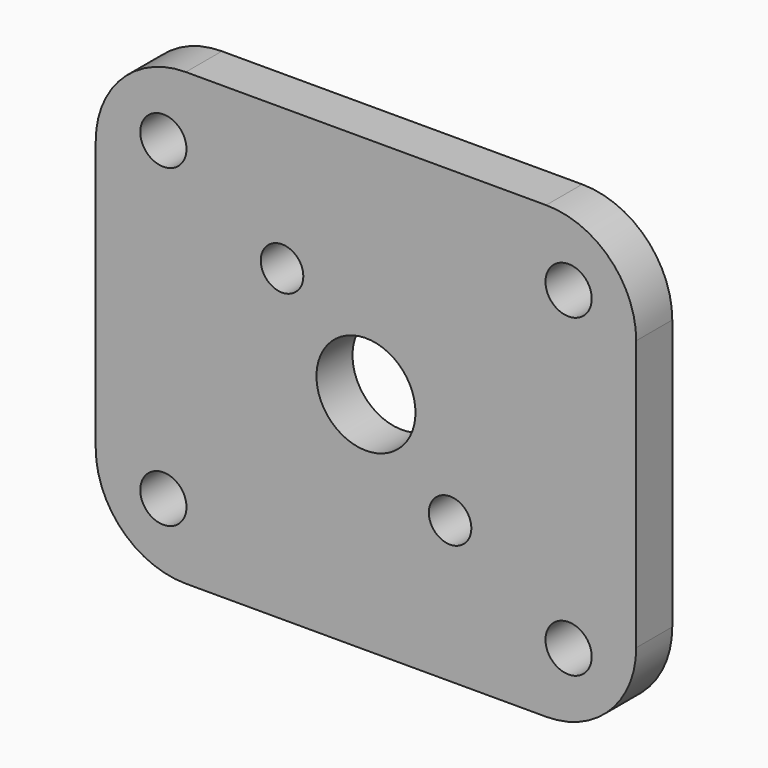
from build123d import *

# Parameters (mm, degrees)
F0_R     = 1.62941
F0_R_2   = 1.4986
F0_R_3   = 1.49987
F0_R_4   = 3.48996
F1_DEPTH = 3.175


with BuildPart() as f1:
    # F0 (on Front) → F1 (new body)
    with BuildSketch(Plane.XZ):
        with BuildLine():
            ThreePointArc((19.05, 9.525), (17.190128, 14.015128), (12.7, 15.875))
            Line((12.7, 15.875), (-12.7, 15.875))
            ThreePointArc((-12.7, 15.875), (-17.190128, 14.015128), (-19.05, 9.525))
            Line((-19.05, 9.525), (-19.05, -9.525))
            ThreePointArc((-19.05, -9.525), (-17.190128, -14.015128), (-12.7, -15.875))
            Line((-12.7, -15.875), (12.7, -15.875))
            ThreePointArc((12.7, -15.875), (17.190128, -14.015128), (19.05, -9.525))
            Line((19.05, -9.525), (19.05, 9.525))
        make_face()
        with Locations((-14.283182, -11.108182)):
            Circle(F0_R, mode=Mode.SUBTRACT)
        with Locations((14.283182, -11.108182)):
            Circle(F0_R, mode=Mode.SUBTRACT)
        with Locations((5.92836, -5.89534)):
            Circle(F0_R_2, mode=Mode.SUBTRACT)
        with Locations((-5.91693, 5.89407)):
            Circle(F0_R_3, mode=Mode.SUBTRACT)
        with Locations((-14.283182, 11.108182)):
            Circle(F0_R, mode=Mode.SUBTRACT)
        Circle(F0_R_4, mode=Mode.SUBTRACT)
        with Locations((14.283182, 11.108182)):
            Circle(F0_R, mode=Mode.SUBTRACT)
    extrude(amount=F1_DEPTH)


solid = f1.part
